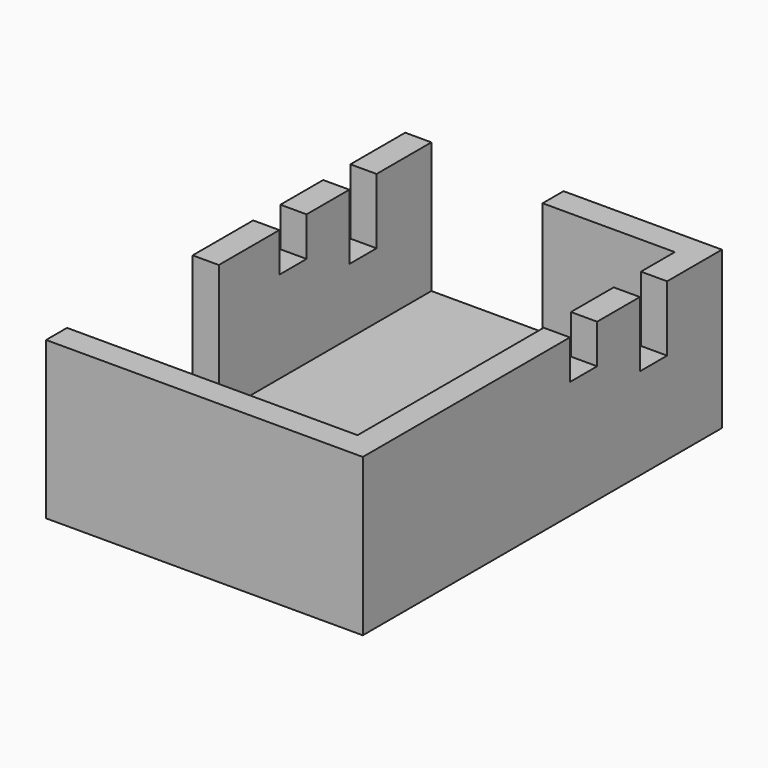
from build123d import *

# Parameters (mm, degrees)
F0_W      = 24.2
F0_H      = 34.3
F1_DEPTH  = 12
F2_W      = 20.1999982953
F2_H      = 30.2999982953
F3_DEPTH  = 10
F4_W      = 2.0000008523
F4_H      = 12
F5_DEPTH  = 10
F6_W      = 10.0999991477
F6_H      = 2.0000008523
F7_DEPTH  = 10
F8_W      = 24.2
F8_H      = 2.6
F9_DEPTH  = 5
F10_W     = 24.2
F10_H     = 2.6
F11_DEPTH = 3


with BuildPart() as f1:
    # F0 (on Top) → F1 (new body)
    with BuildSketch(Plane.XY):
        with Locations((12.1, 17.15)):
            Rectangle(F0_W, F0_H)
    extrude(amount=F1_DEPTH)

    # F2 (on face) → F3 (cut)
    with BuildSketch(Plane.XY.offset(12)):
        with Locations((12.1, 17.15)):
            Rectangle(F2_W, F2_H)
    extrude(amount=-F3_DEPTH, mode=Mode.SUBTRACT)

    # F4 (on face) → F5 (cut)
    with BuildSketch(Plane.XY.offset(12)):
        with Locations((1.0000004262, 8.0000008523)):
            Rectangle(F4_W, F4_H)
    extrude(amount=-F5_DEPTH, mode=Mode.SUBTRACT)

    # F6 (on face) → F7 (cut)
    with BuildSketch(Plane.XY.offset(12)):
        with Locations((7.0500004262, 33.2999995738)):
            Rectangle(F6_W, F6_H)
    extrude(amount=-F7_DEPTH, mode=Mode.SUBTRACT)

    # F8 (on face) → F9 (cut)
    with BuildSketch(Plane.XY.offset(12)):
        with Locations((12.1, 27.7652371407)):
            Rectangle(F8_W, F8_H)
    extrude(amount=-F9_DEPTH, mode=Mode.SUBTRACT)

    # F10 (on face) → F11 (cut)
    with BuildSketch(Plane.XY.offset(12)):
        with Locations((12.1, 21.0815354913)):
            Rectangle(F10_W, F10_H)
    extrude(amount=-F11_DEPTH, mode=Mode.SUBTRACT)


solid = f1.part
